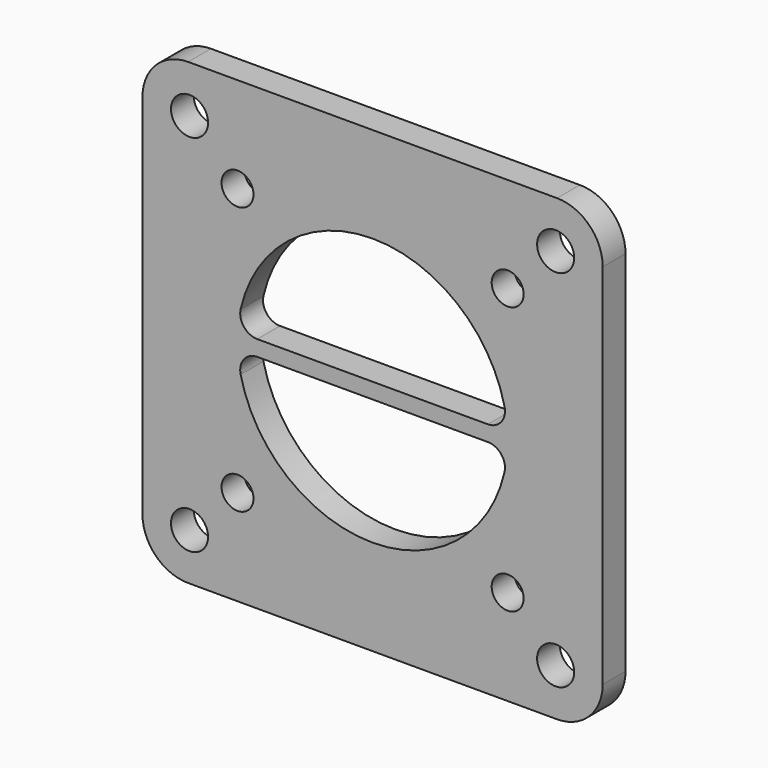
from build123d import *

# Parameters (mm, degrees)
F0_R     = 1.625
F1_DEPTH = 2.5
F2_R     = 1.4
F3_DEPTH = 2.501
F4_R     = 1.5


with BuildPart() as f1:
    # F0 (on Front) → F1 (new body)
    with BuildSketch(Plane.XZ):
        with BuildLine():
            ThreePointArc((0, 4), (1.171573, 1.171573), (4, 0))
            Line((4, 0), (36.33, 0))
            ThreePointArc((36.33, 0), (39.158427, 1.171573), (40.33, 4))
            Line((40.33, 4), (40.33, 36.2))
            ThreePointArc((40.33, 36.2), (39.158427, 39.028427), (36.33, 40.2))
            Line((36.33, 40.2), (4, 40.2))
            ThreePointArc((4, 40.2), (1.171573, 39.028427), (0, 36.2))
            Line((0, 36.2), (0, 4))
        make_face()
        with Locations((4.125, 4.125)):
            Circle(F0_R, mode=Mode.SUBTRACT)
        with Locations((36.205, 4.125)):
            Circle(F0_R, mode=Mode.SUBTRACT)
        with Locations((4.125, 36.075)):
            Circle(F0_R, mode=Mode.SUBTRACT)
        with Locations((36.205, 36.075)):
            Circle(F0_R, mode=Mode.SUBTRACT)
    extrude(amount=F1_DEPTH)

    # F2 (on face) → F3 (cut, through all)
    with BuildSketch(Plane.XZ.offset(2.5)):
        with Locations((8.33, 31.83)):
            Circle(F2_R)
        with Locations((32, 31.83)):
            Circle(F2_R)
        with Locations((32, 8.37)):
            Circle(F2_R)
        with Locations((8.33, 8.37)):
            Circle(F2_R)
        with BuildLine():
            ThreePointArc((8.33, 19.415), (20.165, 8.37), (32, 19.415))
            Line((32, 19.415), (8.33, 19.415))
        make_face()
        with BuildLine():
            Line((8.33, 20.785), (32, 20.785))
            ThreePointArc((32, 20.785), (20.165, 31.83), (8.33, 20.785))
        make_face()
    extrude(amount=-F3_DEPTH, mode=Mode.SUBTRACT)

    # F4
    f4_edges = [f1.edges().sort_by_distance(p)[0] for p in [
        (8.33, -1.25, 20.785),
        (32, -1.25, 20.785),
        (32, -1.25, 19.415),
        (8.33, -1.25, 19.415),
    ]]
    fillet(f4_edges, radius=F4_R)


solid = f1.part
